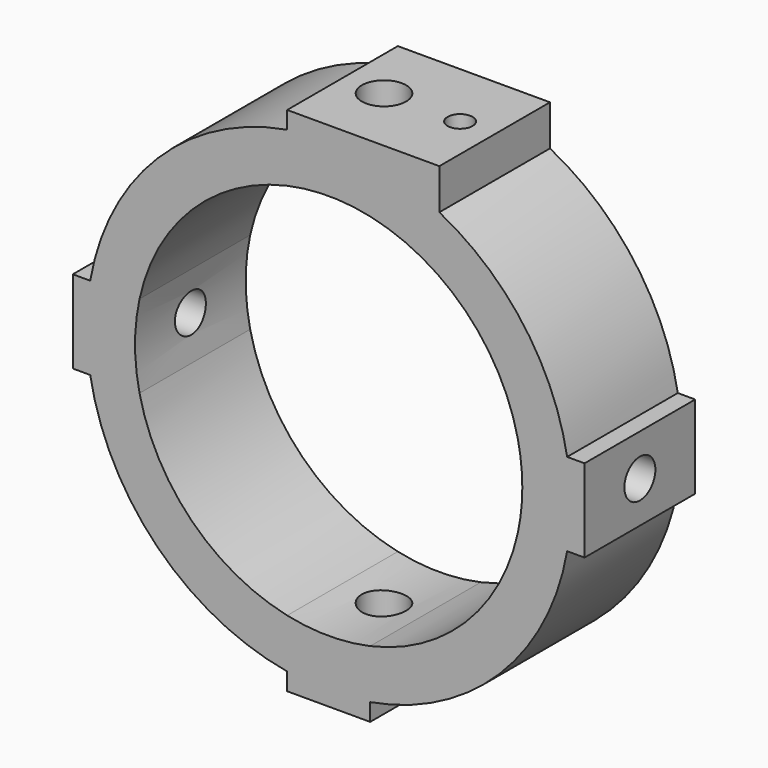
from build123d import *

# Parameters (mm, degrees)
F1_DEPTH  = 10
F2_R      = 1.6
F3_DEPTH  = 40
F4_R      = 1.4
F5_DEPTH  = 40
F6_W      = 5
F6_H      = 10
F7_DEPTH  = 4
F8_R      = 0.8
F9_DEPTH  = 7
F10_R     = 0.9
F11_DEPTH = 1


with BuildPart() as f1:
    # F0 (on Front) → F1 (new body)
    with BuildSketch(Plane.XZ):
        with BuildLine():
            ThreePointArc((13.6747943312, 3), (13.9184611333, 1.5087874873), (14, 0))
            ThreePointArc((14, 0), (13.9184611333, -1.5087874873), (13.6747943312, -3))
            Line((13.6747943312, -3), (17.2409396496, -3))
            ThreePointArc((17.2409396496, -3), (17.4351146235, -1.5055823014), (17.5, 0))
            ThreePointArc((17.5, 0), (17.4351146235, 1.5055823014), (17.2409396496, 3))
            Line((17.2409396496, 3), (13.6747943312, 3))
        make_face()
        with BuildLine():
            ThreePointArc((3, 13.6747943312), (9.8994949366, 9.8994949366), (13.6747943312, 3))
            Line((13.6747943312, 3), (17.2409396496, 3))
            ThreePointArc((17.2409396496, 3), (12.3743686708, 12.3743686708), (3, 17.2409396496))
            Line((3, 17.2409396496), (3, 13.6747943312))
        make_face()
        with BuildLine():
            Line((17.2409396496, -3), (13.6747943312, -3))
            ThreePointArc((13.6747943312, -3), (9.8994949366, -9.8994949366), (3, -13.6747943312))
            Line((3, -13.6747943312), (3, -17.2409396496))
            ThreePointArc((3, -17.2409396496), (12.3743686708, -12.3743686708), (17.2409396496, -3))
        make_face()
        with BuildLine():
            ThreePointArc((-3, 13.6747943312), (0, 14), (3, 13.6747943312))
            Line((3, 13.6747943312), (3, 17.2409396496))
            ThreePointArc((3, 17.2409396496), (0, 17.5), (-3, 17.2409396496))
            Line((-3, 17.2409396496), (-3, 13.6747943312))
        make_face()
        with BuildLine():
            Line((18.5, 3), (17.2409396496, 3))
            ThreePointArc((17.2409396496, 3), (17.4351146235, 1.5055823014), (17.5, 0))
            ThreePointArc((17.5, 0), (17.4351146235, -1.5055823014), (17.2409396496, -3))
            Line((17.2409396496, -3), (18.5, -3))
            Line((18.5, -3), (18.5, 3))
        make_face()
        with BuildLine():
            Line((3, -17.2409396496), (3, -13.6747943312))
            ThreePointArc((3, -13.6747943312), (0, -14), (-3, -13.6747943312))
            Line((-3, -13.6747943312), (-3, -17.2409396496))
            ThreePointArc((-3, -17.2409396496), (0, -17.5), (3, -17.2409396496))
        make_face()
        with BuildLine():
            ThreePointArc((-13.6747943312, 3), (-9.8994949366, 9.8994949366), (-3, 13.6747943312))
            Line((-3, 13.6747943312), (-3, 17.2409396496))
            ThreePointArc((-3, 17.2409396496), (-12.3743686708, 12.3743686708), (-17.2409396496, 3))
            Line((-17.2409396496, 3), (-13.6747943312, 3))
        make_face()
        with BuildLine():
            ThreePointArc((-3, 17.2409396496), (0, 17.5), (3, 17.2409396496))
            Line((3, 17.2409396496), (3, 18.5))
            Line((3, 18.5), (-3, 18.5))
            Line((-3, 18.5), (-3, 17.2409396496))
        make_face()
        with BuildLine():
            Line((-3, -17.2409396496), (-3, -13.6747943312))
            ThreePointArc((-3, -13.6747943312), (-9.8994949366, -9.8994949366), (-13.6747943312, -3))
            Line((-13.6747943312, -3), (-17.2409396496, -3))
            ThreePointArc((-17.2409396496, -3), (-12.3743686708, -12.3743686708), (-3, -17.2409396496))
        make_face()
        with BuildLine():
            Line((3, -18.5), (3, -17.2409396496))
            ThreePointArc((3, -17.2409396496), (0, -17.5), (-3, -17.2409396496))
            Line((-3, -17.2409396496), (-3, -18.5))
            Line((-3, -18.5), (3, -18.5))
        make_face()
        with BuildLine():
            ThreePointArc((-13.6747943312, -3), (-14, 0), (-13.6747943312, 3))
            Line((-13.6747943312, 3), (-17.2409396496, 3))
            ThreePointArc((-17.2409396496, 3), (-17.5, 0), (-17.2409396496, -3))
            Line((-17.2409396496, -3), (-13.6747943312, -3))
        make_face()
        with BuildLine():
            ThreePointArc((-17.2409396496, -3), (-17.5, 0), (-17.2409396496, 3))
            Line((-17.2409396496, 3), (-18.5, 3))
            Line((-18.5, 3), (-18.5, -3))
            Line((-18.5, -3), (-17.2409396496, -3))
        make_face()
    extrude(amount=F1_DEPTH)

    # F2 (on face) → F3 (cut)
    with BuildSketch(Plane.XY.offset(18.5)):
        with Locations((0, -5)):
            Circle(F2_R)
    extrude(amount=-F3_DEPTH, mode=Mode.SUBTRACT)

    # F4 (on face) → F5 (cut)
    with BuildSketch(Plane.YZ.offset(18.5)):
        with Locations((-5, 0)):
            Circle(F4_R)
    extrude(amount=-F5_DEPTH, mode=Mode.SUBTRACT)

    # F6 (on face) → F7 (join)
    with BuildSketch(Plane.XY.offset(18.5)):
        with Locations((5.5, -5)):
            Rectangle(F6_W, F6_H)
    extrude(amount=-F7_DEPTH)

    # F8 (on face) → F9 (cut)
    with BuildSketch(Plane.XY.offset(18.5)):
        with Locations((5.5, -5)):
            Circle(F8_R)
    extrude(amount=-F9_DEPTH, mode=Mode.SUBTRACT)

    # F10 (on face) → F11 (cut)
    with BuildSketch(Plane.XY.offset(18.5)):
        with Locations((5.5, -5)):
            Circle(F10_R)
    extrude(amount=-F11_DEPTH, mode=Mode.SUBTRACT)


solid = f1.part
